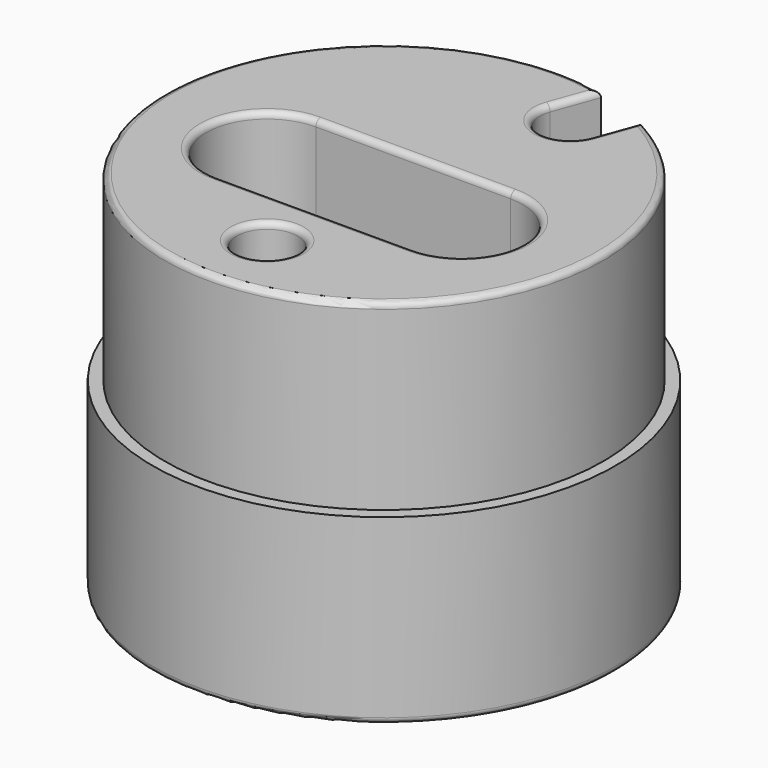
from build123d import *

# Parameters (mm, degrees)
F0_R     = 2.5
F1_DEPTH = 15
F2_DEPTH = 15
F3_R     = 0.5
F4_R     = 0.5


with BuildPart() as f1:
    # F0 (on Top) → F1 (new body)
    with BuildSketch(Plane.XY):
        with BuildLine():
            Line((2.43905, 14.010747), (3.747463, 17.605582))
            ThreePointArc((3.747463, 17.605582), (-6.156363, -16.914467), (8.445926, 15.895481))
            Line((8.445926, 15.895481), (7.137514, 12.300646))
            ThreePointArc((7.137514, 12.300646), (3.933232, 10.806465), (2.43905, 14.010747))
        make_face()
        with Locations((0, -12)):
            Circle(F0_R, mode=Mode.SUBTRACT)
        with BuildLine():
            ThreePointArc((-8, -7), (-13, -2), (-8, 3))
            Line((-8, 3), (8, 3))
            ThreePointArc((8, 3), (13, -2), (8, -7))
            Line((8, -7), (-8, -7))
        make_face(mode=Mode.SUBTRACT)
    extrude(amount=F1_DEPTH)

    # F0 (on Top) → F2 (join)
    with BuildSketch(Plane.XY):
        with BuildLine():
            Line((3.747463, 17.605582), (4.092652, 18.553981))
            ThreePointArc((4.092652, 18.553981), (-6.498383, -17.85416), (8.791115, 16.84388))
            Line((8.791115, 16.84388), (8.445926, 15.895481))
            ThreePointArc((8.445926, 15.895481), (-6.156363, -16.914467), (3.747463, 17.605582))
        make_face()
        with BuildLine():
            Line((2.43905, 14.010747), (3.747463, 17.605582))
            ThreePointArc((3.747463, 17.605582), (-6.156363, -16.914467), (8.445926, 15.895481))
            Line((8.445926, 15.895481), (7.137514, 12.300646))
            ThreePointArc((7.137514, 12.300646), (3.933232, 10.806465), (2.43905, 14.010747))
        make_face()
        with Locations((0, -12)):
            Circle(F0_R, mode=Mode.SUBTRACT)
        with BuildLine():
            ThreePointArc((-8, -7), (-13, -2), (-8, 3))
            Line((-8, 3), (8, 3))
            ThreePointArc((8, 3), (13, -2), (8, -7))
            Line((8, -7), (-8, -7))
        make_face(mode=Mode.SUBTRACT)
    extrude(amount=-F2_DEPTH)

    # F3
    f3_edges = [f1.edges().sort_by_distance(p)[0] for p in [
        (7.79172, 14.098064, 15),
        (3.933232, 10.806465, 15),
        (3.093257, 15.808165, 15),
        (-6.156363, -16.914467, 15),
        (-2.5, -12, 15),
        (0, 3, 15),
        (13, -2, 15),
        (0, -7, 15),
        (-13, -2, 15),
    ]]
    fillet(f3_edges, radius=F3_R)

    # F4
    f4_edges = [f1.edges().sort_by_distance(p)[0] for p in [
        (7.964314, 14.572263, -15),
        (3.933232, 10.806465, -15),
        (3.265851, 16.282364, -15),
        (-6.498383, -17.85416, -15),
        (-13, -2, -15),
        (0, 3, -15),
        (13, -2, -15),
        (0, -7, -15),
        (-2.5, -12, -15),
    ]]
    fillet(f4_edges, radius=F4_R)


solid = f1.part
